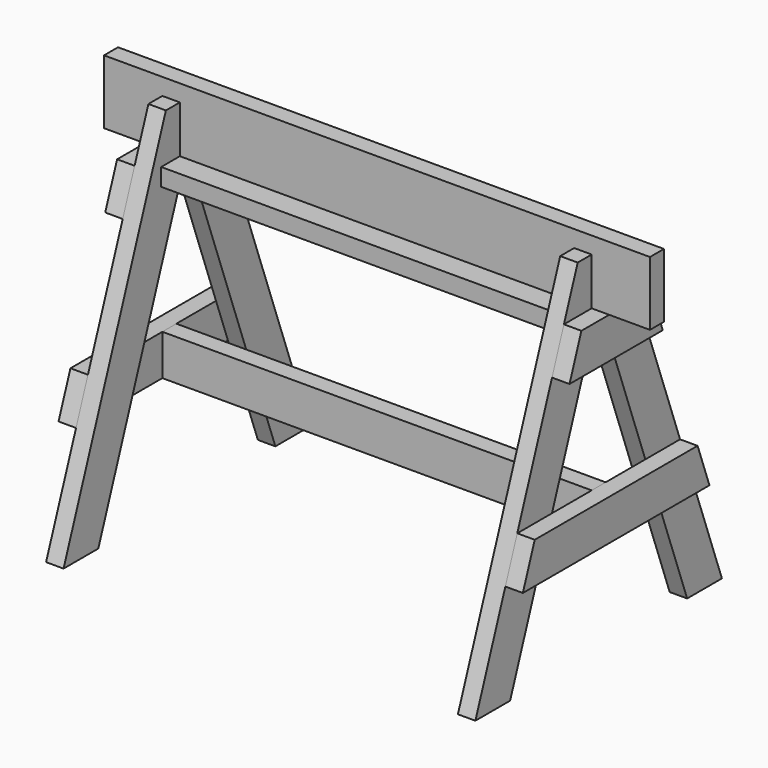
from build123d import *

# Parameters (mm, degrees)
F0_W      = 38.1
F0_H      = 139.7
F1_DEPTH  = 594.51875
F4_DEPTH  = 38.1
F8_DEPTH  = 38.1
F9_DEPTH  = 38.1
F11_W     = 139.7
F11_H     = 38.1
F12_DEPTH = 858.8375
F13_W     = 38.1
F13_H     = 88.9
F14_DEPTH = 935.0375


with BuildPart() as f1:
    # F0 (on Right) → F1 (new body, symmetric)
    with BuildSketch(Plane.YZ):
        Rectangle(F0_W, F0_H)
    extrude(amount=F1_DEPTH, both=True)


with BuildPart() as f4:
    # F3 (on offset) → F4 (new body)
    with BuildSketch(Plane(origin=(-467.51875, 0, 0), x_dir=(0, -1, 0), z_dir=(-1, 0, 0))):
        Polygon((19.05, -69.85), (0, -69.85), (240.9797509243, -731.9364242103), (335.5851548974, -731.9364242103), (57.0482254248, 33.3375), (19.05, 33.3375), align=None)
    extrude(amount=-F4_DEPTH)


with BuildPart() as f5_1:
    # F5: instance of F4
    add(f4.part.mirror(Plane.YZ))


with BuildPart() as f6_1:
    # F6: instance of F4
    add(f4.part.mirror(Plane.XZ))


with BuildPart() as f6_2:
    # F6: instance of F5_1
    add(f5_1.part.mirror(Plane.XZ))


with BuildPart() as f8:
    # F7 (on face) → F8 (new body)
    with BuildSketch(Plane(origin=(-467.51875, 0, 0), x_dir=(0, -1, 0), z_dir=(-1, 0, 0))):
        Polygon((-19.05, -69.85), (-94.6054039731, -69.85), (-126.9623577994, -158.75), (-32.3569538263, -158.75), (0, -69.85), align=None)
        Polygon((0, -69.85), (-32.3569538263, -158.75), (126.9623577994, -158.75), (94.6054039731, -69.85), align=None)
    extrude(amount=F8_DEPTH)


with BuildPart() as f9:
    # F7 (on face) → F9 (new body)
    with BuildSketch(Plane(origin=(-467.51875, 0, 0), x_dir=(0, -1, 0), z_dir=(-1, 0, 0))):
        Polygon((-127.0376422006, -418.883053367), (-221.6430461737, -418.883053367), (-254, -507.783053367), (-159.3945960269, -507.783053367), align=None)
        Polygon((221.6430461737, -418.883053367), (-127.0376422006, -418.883053367), (-159.3945960269, -507.783053367), (254, -507.783053367), align=None)
    extrude(amount=F9_DEPTH)


with BuildPart() as f10_1:
    # F10: instance of F8
    add(f8.part.mirror(Plane.YZ))


with BuildPart() as f10_2:
    # F10: instance of F9
    add(f9.part.mirror(Plane.YZ))


with BuildPart() as f12:
    # F11 (on face) → F12 (new body, through all)
    with BuildSketch(Plane(origin=(429.41875, 0, 0), x_dir=(0, -1, 0), z_dir=(-1, 0, 0))):
        with Locations((0, -88.9)):
            Rectangle(F11_W, F11_H)
    extrude(amount=F12_DEPTH)


with BuildPart() as f14:
    # F13 (on face) → F14 (new body, through all)
    with BuildSketch(Plane(origin=(467.51875, 0, 0), x_dir=(0, -1, 0), z_dir=(-1, 0, 0))):
        with Locations((0, -463.333053367)):
            Rectangle(F13_W, F13_H)
    extrude(amount=F14_DEPTH)


solid = Compound([f1.part, f4.part, f5_1.part, f6_1.part, f6_2.part, f8.part, f9.part, f10_1.part, f10_2.part, f12.part, f14.part])
